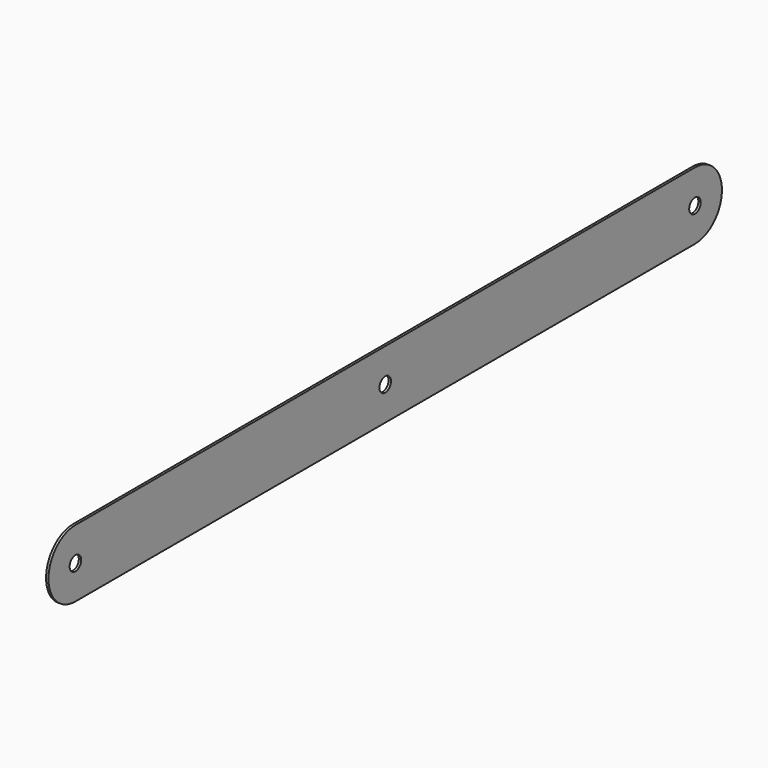
from build123d import *

# Parameters (mm, degrees)
F0_R     = 3
F1_DEPTH = 1


with BuildPart() as f1:
    # F0 (on Right) → F1 (new body)
    with BuildSketch(Plane.YZ):
        with BuildLine():
            Line((169.2397592919, 29.7682959138), (-152.7602405548, 29.7682959138))
            ThreePointArc((-152.7602405548, 29.7682959138), (-142.8607456182, 25.6677908504), (-138.7602405548, 15.7682959138))
            ThreePointArc((-138.7602405548, 15.7682959138), (-142.8607456182, 5.8688009772), (-152.7602405548, 1.7682959138))
            Line((-152.7602405548, 1.7682959138), (169.2397594136, 1.7682959138))
            ThreePointArc((169.2397594136, 1.7682959138), (155.2397594452, 15.7682958529), (169.2397592919, 29.7682959138))
        make_face()
        with Locations((8.2397594452, 15.7682959138)):
            Circle(F0_R, mode=Mode.SUBTRACT)
        with BuildLine():
            ThreePointArc((-138.7602405548, 15.7682959138), (-142.8607456182, 25.6677908504), (-152.7602405548, 29.7682959138))
            ThreePointArc((-152.7602405548, 29.7682959138), (-162.6597354914, 25.6677908504), (-166.7602405548, 15.7682959138))
            ThreePointArc((-166.7602405548, 15.7682959138), (-162.6597354914, 5.8688009772), (-152.7602405548, 1.7682959138))
            ThreePointArc((-152.7602405548, 1.7682959138), (-142.8607456182, 5.8688009772), (-138.7602405548, 15.7682959138))
        make_face()
        with Locations((-152.7602405548, 15.7682959138)):
            Circle(F0_R, mode=Mode.SUBTRACT)
        with BuildLine():
            ThreePointArc((183.2397594452, 15.7682959138), (179.1392543276, 25.6677909046), (169.2397592919, 29.7682959138))
            ThreePointArc((169.2397592919, 29.7682959138), (155.2397594452, 15.7682958529), (169.2397594136, 1.7682959138))
            ThreePointArc((169.2397594136, 1.7682959138), (179.1392543706, 5.868800966), (183.2397594452, 15.7682959138))
        make_face()
        with Locations((169.2397594452, 15.7682959138)):
            Circle(F0_R, mode=Mode.SUBTRACT)
    extrude(amount=F1_DEPTH)


solid = f1.part
